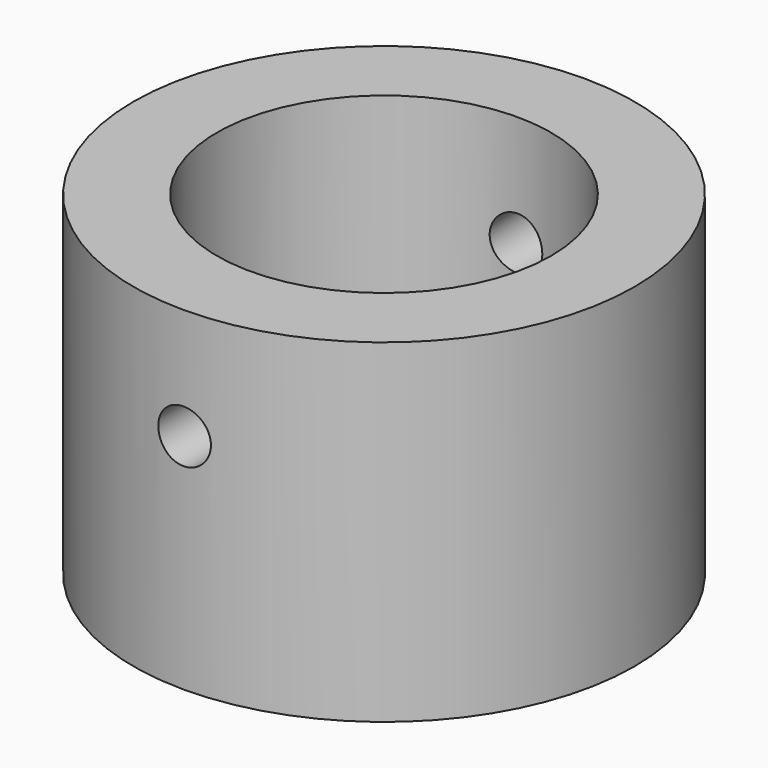
from build123d import *

# Parameters (mm, degrees)
F0_R          = 9.525
F0_R_2        = 6.35
F1_DEPTH      = 12.7
F2_R          = 1
F3_DEPTH      = 25.4
F3_DEPTH_BACK = 25.4


with BuildPart() as f1:
    # F0 (on Top) → F1 (new body)
    with BuildSketch(Plane.XY):
        Circle(F0_R)
        Circle(F0_R_2, mode=Mode.SUBTRACT)
    extrude(amount=F1_DEPTH)

    # F2 (on Front) → F3 (cut, two sides)
    with BuildSketch(Plane.XZ) as f3_sk:
        with Locations((0, 8.4727797657)):
            Circle(F2_R)
    extrude(amount=-F3_DEPTH, mode=Mode.SUBTRACT)
    extrude(f3_sk.sketch, amount=F3_DEPTH_BACK, mode=Mode.SUBTRACT)


solid = f1.part
